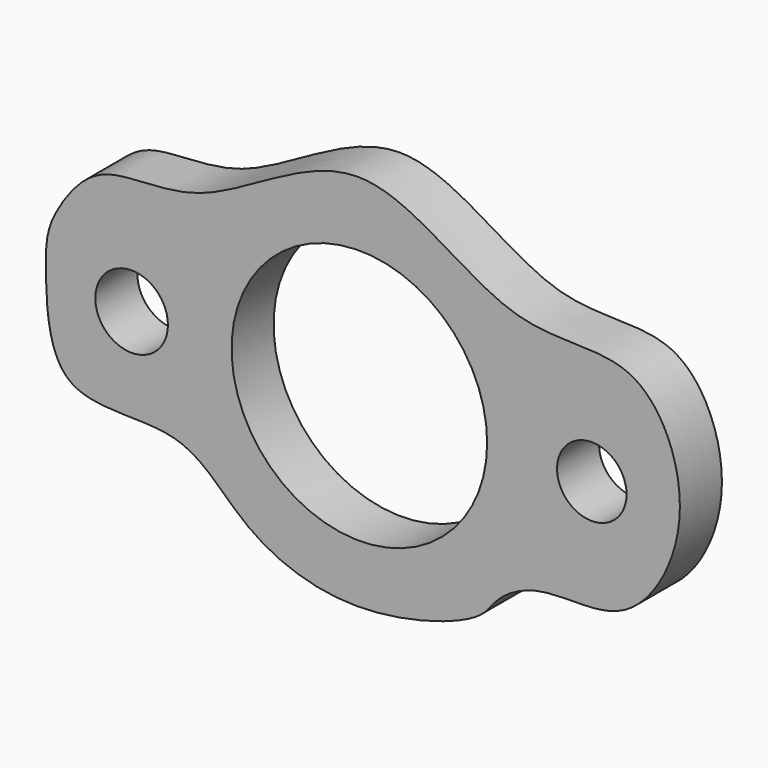
from build123d import *

# Parameters (mm, degrees)
F0_R     = 7.0203394931
F0_R_2   = 24.703696686
F0_R_3   = 6.7199643272
F1_DEPTH = 10.16


with BuildPart() as f1:
    # F0 (on Front) → F1 (new body)
    with BuildSketch(Plane.XZ):
        with BuildLine():
            add(Edge.make_bspline(
                [(-60.5616519895, 0), (-60.6542454975, 3.3912930131), (-60.6194965487, 7.4339798932), (-58.7662303082, 12.5853788568), (-50.5045562127, 24.7475484461), (-29.7211516148, 19.9514521774), (0.3773300897, 47.2143983449), (28.5178933466, 18.3255869851), (55.0196092365, 26.1035844004), (65.9343878533, -0.2838297696), (54.0173050883, -21.7097657377), (41.0930480147, -21.456996975), (32.7357832895, -21.7472799961), (26.0982260927, -25.9226837094), (23.6972280421, -31.3775485139), (-1.0121260828, -38.8686446252), (-22.7958044471, -30.9089194011), (-33.5151739519, -15.2285497729), (-59.6187584572, -21.1126142493), (-60.4247167661, -5.015335053), (-60.5616519895, 0)],
                knots=[0, 0, 0, 0, 0.0379424449, 0.0695367858, 0.1179305369, 0.1785678729, 0.2589872078, 0.338638066, 0.404706191, 0.4702300365, 0.5345709445, 0.5813832795, 0.6214828978, 0.6580587393, 0.6901549123, 0.7575941063, 0.8238122351, 0.8812745647, 0.9438874573, 1, 1, 1, 1], degree=3))
        make_face()
        with Locations((-44.0281033516, 0)):
            Circle(F0_R, mode=Mode.SUBTRACT)
        Circle(F0_R_2, mode=Mode.SUBTRACT)
        with Locations((44.9321717024, 0)):
            Circle(F0_R_3, mode=Mode.SUBTRACT)
    extrude(amount=F1_DEPTH)


solid = f1.part
